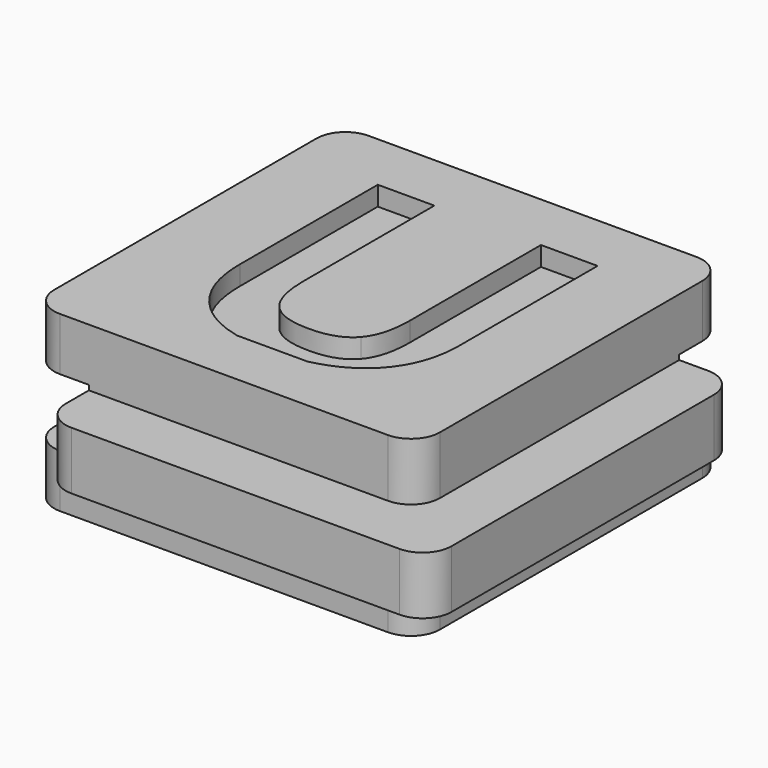
from build123d import *

# Parameters (mm, degrees)
F0_W     = 14
F0_H     = 3
F0_W_2   = 3
F1_DEPTH = 20
F2_DEPTH = 3
F3_W     = 3
F3_H     = 3
F4_DEPTH = 100
F5_W     = 3
F5_H     = 3.5
F6_DEPTH = 100
F7_R     = 1.5
F9_DEPTH = 1


with BuildPart() as f1:
    # F0 (on Front) → F1 (new body)
    with BuildSketch(Plane.XZ):
        Polygon((10, 1.5), (10, 4.5), (-10, 4.5), (-10, 1.5), (-7, 1.5), (7, 1.5), align=None)
        Rectangle(F0_W, F0_H)
        with Locations((11.5, 0)):
            Rectangle(F0_W_2, F0_H)
        with Locations((8.5, 0)):
            Rectangle(F0_W_2, F0_H)
        with Locations((-8.5, 0)):
            Rectangle(F0_W_2, F0_H)
        Polygon((10, -4.5), (10, -1.5), (7, -1.5), (-7, -1.5), (-10, -1.5), (-10, -4.5), align=None)
    extrude(amount=-F1_DEPTH)

    # F0 (on Front) → F2 (join)
    with BuildSketch(Plane.XZ):
        with Locations((-8.5, 0)):
            Rectangle(F0_W_2, F0_H)
        Rectangle(F0_W, F0_H)
        with Locations((8.5, 0)):
            Rectangle(F0_W_2, F0_H)
        with Locations((11.5, 0)):
            Rectangle(F0_W_2, F0_H)
    extrude(amount=F2_DEPTH)

    # F3 (on face) → F4 (cut)
    with BuildSketch(Plane.YZ.offset(13)):
        Polygon((23, -1.75), (23, 1.75), (17, 1.75), (17, 1.5), (20, 1.5), (20, -1.5), (17, -1.5), (17, -1.75), align=None)
        with Locations((18.5, 0)):
            Rectangle(F3_W, F3_H)
    extrude(amount=-F4_DEPTH, mode=Mode.SUBTRACT)

    # F5 (on face) → F6 (cut)
    with BuildSketch(Plane(origin=(0, 17, 0), x_dir=(-1, 0, 0), z_dir=(0, 1, 0))):
        with Locations((11.5, 0)):
            Rectangle(F5_W, F5_H)
        with Locations((8.5, 0)):
            Rectangle(F5_W, F5_H)
    extrude(amount=-F6_DEPTH, mode=Mode.SUBTRACT)

    # F7
    f7_edges = [f1.edges().sort_by_distance(p)[0] for p in [
        (-7, -3, 0),
        (13, -3, 0),
        (10, 0, 3),
        (10, 0, -3),
        (-10, 0, -3.125),
        (-10, 0, 3.125),
        (-7, 17, 0),
        (-10, 20, 3.125),
        (-10, 20, -3.125),
        (13, 17, 0),
        (10, 20, 3.125),
        (10, 20, -3.125),
    ]]
    fillet(f7_edges, radius=F7_R)

    # F8 (on face) → F9 (cut)
    with BuildSketch(Plane.XY.offset(4.5)):
        with BuildLine():
            Line((-1.7204794807, 3), (1.9396642309, 3))
            add(Edge.make_bspline(
                [(3.1876434099, 3.4268663194), (2.6101370894, 3.1526013575), (1.9396642309, 3)],
                knots=[0, 0, 0, 0.4435987872, 0.4435987872, 0.4435987872], degree=2))
            add(Edge.make_bspline(
                [(5.177660771, 5.2026909722), (4.4895097293, 4.0451388889), (3.1876434099, 3.4268663194)],
                knots=[0, 0, 0, 1, 1, 1], degree=2))
            add(Edge.make_bspline(
                [(5.8658118126, 7.9006076389), (5.8658118126, 6.3602430556), (5.177660771, 5.2026909722)],
                knots=[0, 0, 0, 1, 1, 1], degree=2))
            Line((5.8658118126, 7.9006076389), (5.8658118126, 16.8815104167))
            Line((5.8658118126, 16.8815104167), (2.9309159793, 16.8815104167))
            Line((2.9309159793, 16.8815104167), (2.9309159793, 8.4019097222))
            add(Edge.make_bspline(
                [(2.2807423682, 6.0336371528), (2.9309159793, 6.7886284722), (2.9309159793, 8.4019097222)],
                knots=[0, 0, 0, 1, 1, 1], degree=2))
            add(Edge.make_bspline(
                [(0.187426396, 5.2786458333), (1.6305687571, 5.2786458333), (2.2807423682, 6.0336371528)],
                knots=[0, 0, 0, 1, 1, 1], degree=2))
            add(Edge.make_bspline(
                [(-1.9499433957, 6.0290798611), (-1.3043270763, 5.2786458333), (0.187426396, 5.2786458333)],
                knots=[0, 0, 0, 1, 1, 1], degree=2))
            add(Edge.make_bspline(
                [(-2.5955597151, 8.3836805556), (-2.5955597151, 6.7795138889), (-1.9499433957, 6.0290798611)],
                knots=[0, 0, 0, 1, 1, 1], degree=2))
            Line((-2.5955597151, 8.3836805556), (-2.5955597151, 16.8815104167))
            Line((-2.5955597151, 16.8815104167), (-5.527417354, 16.8815104167))
            Line((-5.527417354, 16.8815104167), (-5.527417354, 7.9370659722))
            add(Edge.make_bspline(
                [(-4.0462975624, 4.1818576389), (-5.527417354, 5.5551215278), (-5.527417354, 7.9370659722)],
                knots=[0, 0, 0, 1, 1, 1], degree=2))
            add(Edge.make_bspline(
                [(-1.7204794807, 3), (-3.1181346209, 3.3212839988), (-4.0462975624, 4.1818576389)],
                knots=[0.3733370206, 0.3733370206, 0.3733370206, 1, 1, 1], degree=2))
        make_face()
    extrude(amount=-F9_DEPTH, mode=Mode.SUBTRACT)


solid = f1.part
